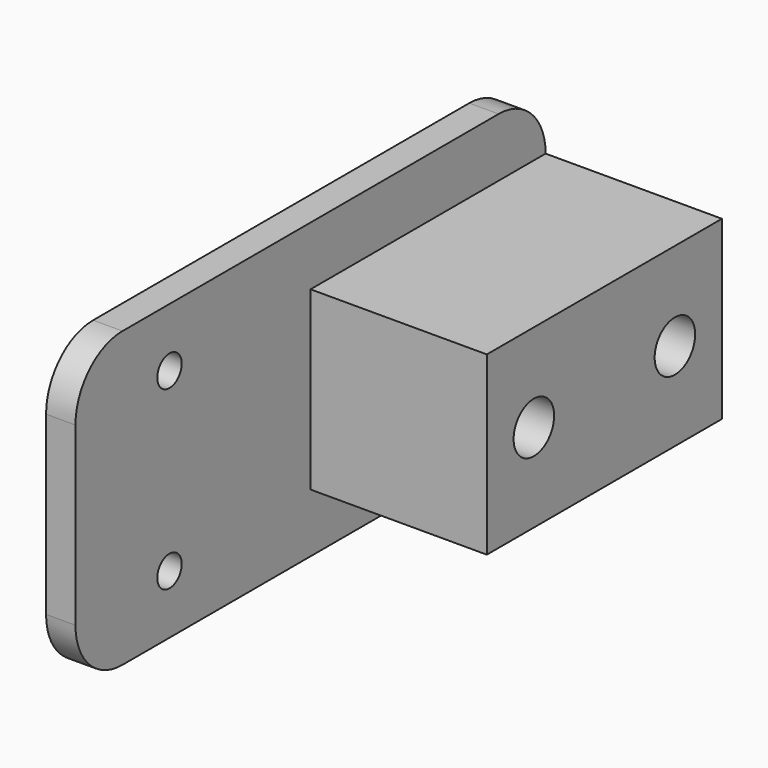
from build123d import *

# Parameters (mm, degrees)
SKETCH_W        = 100
SKETCH_H        = 50
SKETCH_R        = 2.6
PAD_DEPTH       = 5
SKETCH001_W     = 50
SKETCH001_H     = 30
PAD001_DEPTH    = 30
SKETCH003_R     = 5.75
POCKET001_DEPTH = 12
SKETCH004_R     = 3
POCKET_DEPTH    = 34
SKETCH005_R     = 3
POCKET002_DEPTH = 5
SKETCH006_R     = 4.31
POCKET003_DEPTH = 13
FILLET_R        = 10


with BuildPart() as part:
    # Sketch → Pad (new body)
    with BuildSketch(Plane.YZ):
        Rectangle(SKETCH_W, SKETCH_H)
        with Locations((-30, 15)):
            Circle(SKETCH_R, mode=Mode.SUBTRACT)
        with Locations((-30, -15)):
            Circle(SKETCH_R, mode=Mode.SUBTRACT)
    extrude(amount=PAD_DEPTH)

    # Sketch001 (on Face8 of Pad) → Pad001 (join)
    with BuildSketch(Plane.YZ.offset(5)):
        with Locations((25, 0)):
            Rectangle(SKETCH001_W, SKETCH001_H)
    extrude(amount=PAD001_DEPTH)

    # Sketch003 → Pocket001 (cut)
    with BuildSketch(Plane(origin=(0, 0, 0), x_dir=(0, 1, 0), z_dir=(-1, 0, 0))):
        with Locations((25, 0)):
            Circle(SKETCH003_R)
    extrude(amount=-POCKET001_DEPTH, mode=Mode.SUBTRACT)

    # Sketch004 (on DatumPlane) → Pocket (cut)
    with BuildSketch(Plane(origin=(0, 8, 0), x_dir=(0, 0, -1), z_dir=(0, -1, 0))):
        with Locations((0, 20)):
            Circle(SKETCH004_R)
    extrude(amount=-POCKET_DEPTH, mode=Mode.SUBTRACT)

    # Sketch005 (on Face15 of Pocket) → Pocket002 (cut)
    with BuildSketch(Plane(origin=(12, 0, 0), x_dir=(0, 1, 0), z_dir=(-1, 0, 0))):
        with Locations((25, 0)):
            Circle(SKETCH005_R)
    extrude(amount=-POCKET002_DEPTH, mode=Mode.SUBTRACT)

    # Sketch006 (on Face14 of Pocket002) → Pocket003 (cut)
    with BuildSketch(Plane.YZ.offset(35)):
        with Locations((10, 0)):
            Circle(SKETCH006_R)
        with Locations((40, 0)):
            Circle(SKETCH006_R)
    extrude(amount=-POCKET003_DEPTH, mode=Mode.SUBTRACT)

    # Fillet
    fillet_edges = [part.edges().sort_by_distance(p)[0] for p in [
        (2.5, -50, 25),
        (2.5, 50, -25),
        (2.5, 50, 25),
        (2.5, -50, -25),
    ]]
    fillet(fillet_edges, radius=FILLET_R)


solid = part.part
